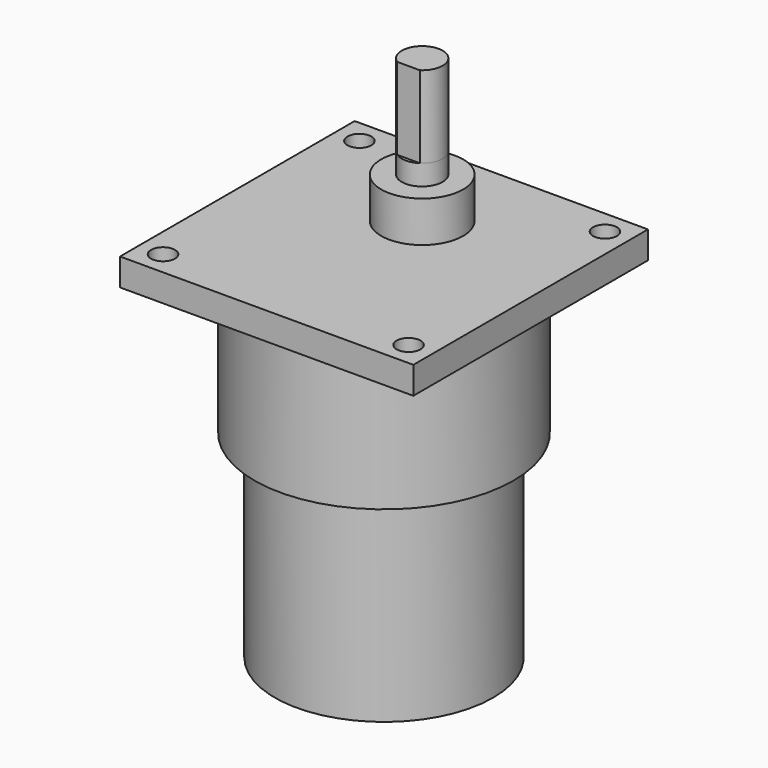
from build123d import *

# Parameters (mm, degrees)
SKETCH_W     = 43
SKETCH_H     = 43
PAD_DEPTH    = 4
SKETCH001_R  = 1.75
POCKET_DEPTH = 4
SKETCH002_R  = 6
PAD001_DEPTH = 6
SKETCH003_R  = 3
PAD002_DEPTH = 3
PAD003_DEPTH = 12
SKETCH005_R  = 19
PAD004_DEPTH = 20.5
SKETCH006_R  = 16
PAD005_DEPTH = 29


with BuildPart() as part:
    # Sketch → Pad (new body)
    with BuildSketch(Plane.XY):
        Rectangle(SKETCH_W, SKETCH_H)
    extrude(amount=PAD_DEPTH)

    # Sketch001 (on Face6 of Pad) → Pocket (cut)
    with BuildSketch(Plane.XY.offset(4)):
        with Locations((-18, 18)):
            Circle(SKETCH001_R)
        with Locations((18, 18)):
            Circle(SKETCH001_R)
        with Locations((18, -18)):
            Circle(SKETCH001_R)
        with Locations((-18, -18)):
            Circle(SKETCH001_R)
    extrude(amount=-POCKET_DEPTH, mode=Mode.SUBTRACT)

    # Sketch002 (on Face5 of Pocket) → Pad001 (join)
    with BuildSketch(Plane.XY.offset(4)):
        with Locations((0, 7)):
            Circle(SKETCH002_R)
    extrude(amount=PAD001_DEPTH)

    # Sketch003 (on Face12 of Pad001) → Pad002 (join)
    with BuildSketch(Plane.XY.offset(10)):
        with Locations((0, 7)):
            Circle(SKETCH003_R)
    extrude(amount=PAD002_DEPTH)

    # Sketch004 (on Face14 of Pad002) → Pad003 (join)
    with BuildSketch(Plane.XY.offset(13)):
        with BuildLine():
            ThreePointArc((1.658312, 4.5), (0, 10), (-1.658312, 4.5))
            Line((-1.658312, 4.5), (1.658312, 4.5))
        make_face()
    extrude(amount=PAD003_DEPTH)

    # Sketch005 (on Face4 of Pad003) → Pad004 (join)
    with BuildSketch(Plane(origin=(0, 0, 0), x_dir=(1, 0, 0), z_dir=(0, 0, -1))):
        Circle(SKETCH005_R)
    extrude(amount=PAD004_DEPTH)

    # Sketch006 (on Face13 of Pad004) → Pad005 (join)
    with BuildSketch(Plane(origin=(0, 0, -20.5), x_dir=(1, 0, 0), z_dir=(0, 0, -1))):
        Circle(SKETCH006_R)
    extrude(amount=PAD005_DEPTH)


solid = part.part
